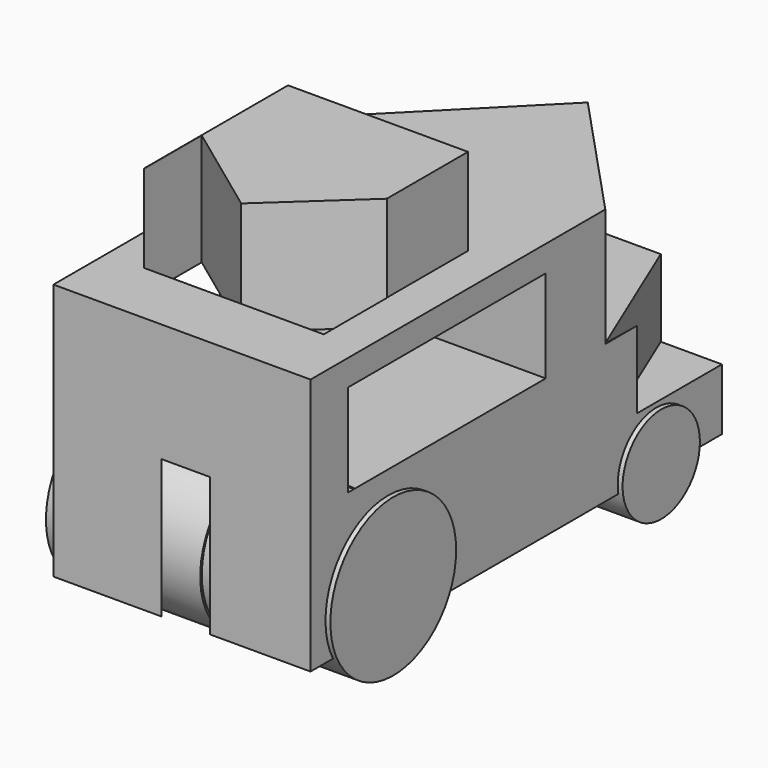
from build123d import *

# Parameters (mm, degrees)
F0_W      = 254
F0_H      = 254
F1_DEPTH  = 508
F2_W      = 177.8
F2_H      = 177.8
F3_DEPTH  = 203.2
F5_DEPTH  = 127
F7_DEPTH  = 76.2
F9_DEPTH  = 254
F10_R     = 77.653267
F10_R_2   = 47.728315
F11_DEPTH = 127
F12_R     = 76.375648
F12_R_2   = 47.348432
F13_DEPTH = 152.4
F15_DEPTH = 203.2
F16_W     = 246.96593
F16_H     = 92.753515
F17_DEPTH = 152.4
F18_W     = 244.296044
F18_H     = 91.418564
F19_DEPTH = 152.4


with BuildPart() as f1:
    # F0 (on Front) → F1 (new body)
    with BuildSketch(Plane.XZ):
        with Locations((-4.823953, -9.921276)):
            Rectangle(F0_W, F0_H)
    extrude(amount=F1_DEPTH)

    # F2 (on Top) → F3 (join)
    with BuildSketch(Plane.XY):
        with Locations((-6.201372, -353.146609)):
            Rectangle(F2_W, F2_H)
    extrude(amount=F3_DEPTH)

    # F4 (on Top) → F5 (cut)
    with BuildSketch(Plane.XY):
        Polygon((-132.923797, -147.029117), (0, -12.960467), (0, 0), (-132.923797, 0), align=None)
        Polygon((0, 0), (0, -12.960467), (123.286948, -145.190179), (123.275883, 0), align=None)
    extrude(amount=F5_DEPTH, mode=Mode.SUBTRACT)

    # F6 (on Top) → F7 (cut)
    with BuildSketch(Plane.XY):
        Polygon((-132.923797, -145.192564), (-63.134633, 0), (-133.842081, 0), align=None)
        Polygon((61.751235, 0), (121.439323, -143.35601), (124.19416, 0), align=None)
    extrude(amount=-F7_DEPTH, mode=Mode.SUBTRACT)

    # F8 (on Top) → F9 (cut)
    with BuildSketch(Plane.XY):
        Polygon((121.439323, -452.815861), (-132.923797, -452.815861), (0, -520.768464), align=None)
    extrude(amount=-F9_DEPTH, mode=Mode.SUBTRACT)

    # F10 (on Right) → F11 (join)
    with BuildSketch(Plane.YZ):
        with Locations((-411.882162, -100.233831)):
            Circle(F10_R)
        with Locations((-80.955863, -128.580093)):
            Circle(F10_R_2)
    extrude(amount=F11_DEPTH)

    # F12 (on Right) → F13 (join)
    with BuildSketch(Plane.YZ):
        with Locations((-415.141463, -100.814395)):
            Circle(F12_R)
        with Locations((-80.068722, -127.513409)):
            Circle(F12_R_2)
    extrude(amount=-F13_DEPTH)

    # F14 (on Top) → F15 (cut)
    with BuildSketch(Plane.XY):
        Polygon((0, -440.878212), (-94.885923, -371.089071), (-94.885923, -442.663282), (82.948513, -442.663282), (82.948513, -364.321649), align=None)
    extrude(amount=F15_DEPTH, mode=Mode.SUBTRACT)

    # F16 (on Right) → F17 (cut)
    with BuildSketch(Plane.YZ):
        with Locations((-340.384193, 46.376757)):
            Rectangle(F16_W, F16_H)
    extrude(amount=-F17_DEPTH, mode=Mode.SUBTRACT)

    # F18 (on Right) → F19 (cut)
    with BuildSketch(Plane.YZ):
        with Locations((-339.716718, 45.709282)):
            Rectangle(F18_W, F18_H)
    extrude(amount=F19_DEPTH, mode=Mode.SUBTRACT)


solid = f1.part
